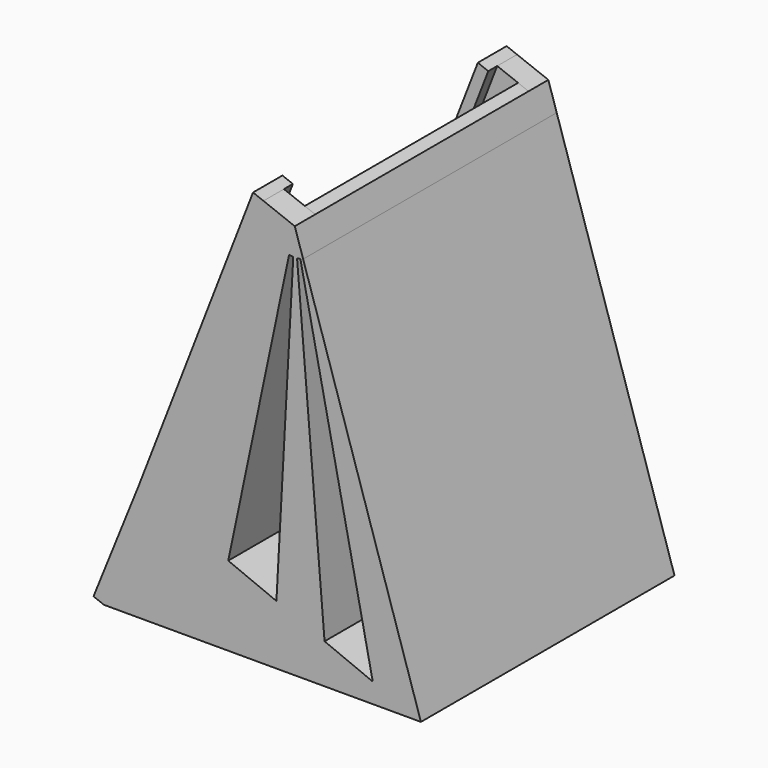
from build123d import *

# Parameters (mm, degrees)
F1_DEPTH  = 42.5
F2_W      = 3
F2_H      = 70
F2_W_2    = 65.5
F3_DEPTH  = 9
F3_FACE_W = 71.5
F3_FACE_H = 85
F4_DEPTH  = 3


with BuildPart() as f1:
    # F0 (on Front) → F1 (new body, symmetric)
    with BuildSketch(Plane.XZ):
        Polygon((22.3621103702, 109.2680796906), (-8.3229273872, 30), (0, 26.5752547967), (28.090155991, 99.1349922478), (30.7552011609, 106.0190756927), align=None)
        with BuildLine():
            Line((28.090155991, 99.1349922478), (0, 26.5752547967))
            Line((0, 26.5752547967), (12.916813397, 21.2602024521))
            Line((12.916813397, 21.2602024521), (29.2348995336, 98.7953817902))
            ThreePointArc((29.2348995336, 98.7953817902), (28.6556498353, 98.9420032142), (28.090155991, 99.1349922478))
        make_face()
        with BuildLine():
            Line((30.3524578973, 98.6481280943), (30.7552011609, 106.0190756927))
            Line((30.7552011609, 106.0190756927), (29.2348995336, 98.7953817902))
            ThreePointArc((29.2348995336, 98.7953817902), (29.7908639139, 98.7003924567), (30.3524578973, 98.6481280943))
        make_face()
        with BuildLine():
            Line((31.3717730218, 98.662927939), (30.7552011609, 106.0190756927))
            Line((30.7552011609, 106.0190756927), (30.3524578973, 98.6481280943))
            ThreePointArc((30.3524578973, 98.6481280943), (30.8623712412, 98.637911475), (31.3717730218, 98.662927939))
        make_face()
        with BuildLine():
            Line((30.7552011609, 106.0190756927), (28.090155991, 99.1349922478))
            ThreePointArc((28.090155991, 99.1349922478), (28.6556498353, 98.9420032142), (29.2348995336, 98.7953817902))
            Line((29.2348995336, 98.7953817902), (30.7552011609, 106.0190756927))
        make_face()
        with BuildLine():
            Line((32.2561050406, 98.7913265148), (30.7552011609, 106.0190756927))
            Line((30.7552011609, 106.0190756927), (31.3717730218, 98.662927939))
            ThreePointArc((31.3717730218, 98.662927939), (31.8158836896, 98.713733592), (32.2561050406, 98.7913265148))
        make_face()
        with BuildLine():
            ThreePointArc((32.2561050406, 98.7913265148), (32.6301854549, 98.8792224357), (32.9991851562, 98.9864654757))
            Line((32.9991851562, 98.9864654757), (30.7552011609, 106.0190756927))
            Line((30.7552011609, 106.0190756927), (32.2561050406, 98.7913265148))
        make_face()
        with BuildLine():
            Line((25.8336267941, 15.9451501074), (38.7504401911, 10.6300977628))
            Line((38.7504401911, 10.6300977628), (31.3717730218, 98.662927939))
            ThreePointArc((31.3717730218, 98.662927939), (30.8623712412, 98.637911475), (30.3524578973, 98.6481280943))
            Line((30.3524578973, 98.6481280943), (25.8336267941, 15.9451501074))
        make_face()
        with BuildLine():
            Line((51.6672535881, 5.3150454182), (64.5840501522, 0))
            Line((64.5840501522, 0), (32.9991851562, 98.9864654757))
            ThreePointArc((32.9991851562, 98.9864654757), (32.6301854549, 98.8792224357), (32.2561050406, 98.7913265148))
            Line((32.2561050406, 98.7913265148), (51.6672535881, 5.3150454182))
        make_face()
        Polygon((-8.3229273872, 30), (-20.4159498478, 0), (64.5840501522, 0), (51.6672535881, 5.3150454182), (38.7504401911, 10.6300977628), (25.8336267941, 15.9451501074), (12.916813397, 21.2602024521), (0, 26.5752547967), align=None)
    extrude(amount=F1_DEPTH, both=True)

    # F2 (on face) → F3 (cut)
    with BuildSketch(Plane(origin=(-17.3379708436, 0, 6.7116081536), x_dir=(0, -1, 0), z_dir=(-0.9325656434, 0, 0.3610004442))):
        with Locations((34.1458392143, 74.9723888187)):
            Rectangle(F2_W, F2_H)
        with Locations((-0.1041607857, 74.9723888187)):
            Rectangle(F2_W_2, F2_H)
        with Locations((-34.3541607857, 74.9723888187)):
            Rectangle(F2_W, F2_H)
        Polygon((-35.8541607857, 35.0806618999), (-35.8541607857, 24.9723888187), (-32.8541607857, 24.9723888187), (-32.8541607857, 39.9723888187), (-35.8541607857, 39.9723888187), align=None)
        Polygon((-32.8541607857, 39.9723888187), (-32.8541607857, 24.9723888187), (-0.1041607857, 24.9723888187), (32.6458392143, 24.9723888187), (32.6458392143, 39.9723888187), align=None)
        Polygon((32.6458392143, 39.9723888187), (32.6458392143, 24.9723888187), (35.6458392143, 24.9723888187), (35.6458392143, 35.0806618999), (35.6458392143, 39.9723888187), align=None)
        Polygon((-35.8541607857, 35.0806618999), (-35.8541607857, 24.9723888187), (-32.8541607857, 24.9723888187), (-32.8541607857, 39.9723888187), (-35.8541607857, 39.9723888187), align=None)
        Polygon((32.6458392143, 39.9723888187), (32.6458392143, 24.9723888187), (35.6458392143, 24.9723888187), (35.6458392143, 35.0806618999), (35.6458392143, 39.9723888187), align=None)
    extrude(amount=-F3_DEPTH, mode=Mode.SUBTRACT)

    # F3_face (on face) + F2 (on face) + F1_face1 (on face) → F4 (join)
    with BuildSketch(Plane(origin=(15.4126822823, 0.1041607857, 66.3850358474), x_dir=(0, -1, 0), z_dir=(-0.9325656434, 0, 0.3610004442))):
        Rectangle(F3_FACE_W, F3_FACE_H)
    with BuildSketch(Plane(origin=(-17.3379708436, 0, 6.7116081536), x_dir=(0, -1, 0), z_dir=(-0.9325656434, 0, 0.3610004442))):
        with Locations((-34.3541607857, 74.9723888187)):
            Rectangle(F2_W, F2_H)
        Polygon((-35.8541607857, 35.0806618999), (-35.8541607857, 24.9723888187), (-32.8541607857, 24.9723888187), (-32.8541607857, 39.9723888187), (-35.8541607857, 39.9723888187), align=None)
        Polygon((-35.8541607857, 35.0806618999), (-35.8541607857, 24.9723888187), (-32.8541607857, 24.9723888187), (-32.8541607857, 39.9723888187), (-35.8541607857, 39.9723888187), align=None)
        Polygon((-32.8541607857, 39.9723888187), (-32.8541607857, 24.9723888187), (-0.1041607857, 24.9723888187), (32.6458392143, 24.9723888187), (32.6458392143, 39.9723888187), align=None)
        Polygon((32.6458392143, 39.9723888187), (32.6458392143, 24.9723888187), (35.6458392143, 24.9723888187), (35.6458392143, 35.0806618999), (35.6458392143, 39.9723888187), align=None)
        Polygon((32.6458392143, 39.9723888187), (32.6458392143, 24.9723888187), (35.6458392143, 24.9723888187), (35.6458392143, 35.0806618999), (35.6458392143, 39.9723888187), align=None)
        with Locations((34.1458392143, 74.9723888187)):
            Rectangle(F2_W, F2_H)
        Polygon((-42.5, 24.9723888187), (-35.8541607857, 24.9723888187), (-35.8541607857, 35.0806618999), (-35.8541607857, 39.9723888187), (-35.8541607857, 109.9723888187), (-42.5, 109.9723888187), align=None)
        Polygon((35.6458392143, 35.0806618999), (35.6458392143, 24.9723888187), (42.5, 24.9723888187), (42.5, 109.9723888187), (35.6458392143, 109.9723888187), (35.6458392143, 39.9723888187), align=None)
    with BuildSketch(Plane(origin=(-14.3694386175, 0, 15), x_dir=(0, -1, 0), z_dir=(-0.9274816955, 0, 0.3738685658))):
        Polygon((-35.8541607857, 16.1728259144), (-42.5, 16.1728259144), (-42.5, -16.1728259144), (42.5, -16.1728259144), (42.5, 16.1728259144), (35.6458392143, 16.1728259144), align=None)
    extrude(amount=F4_DEPTH, dir=(-0.9325656434, 0, 0.3610004442))


solid = f1.part
